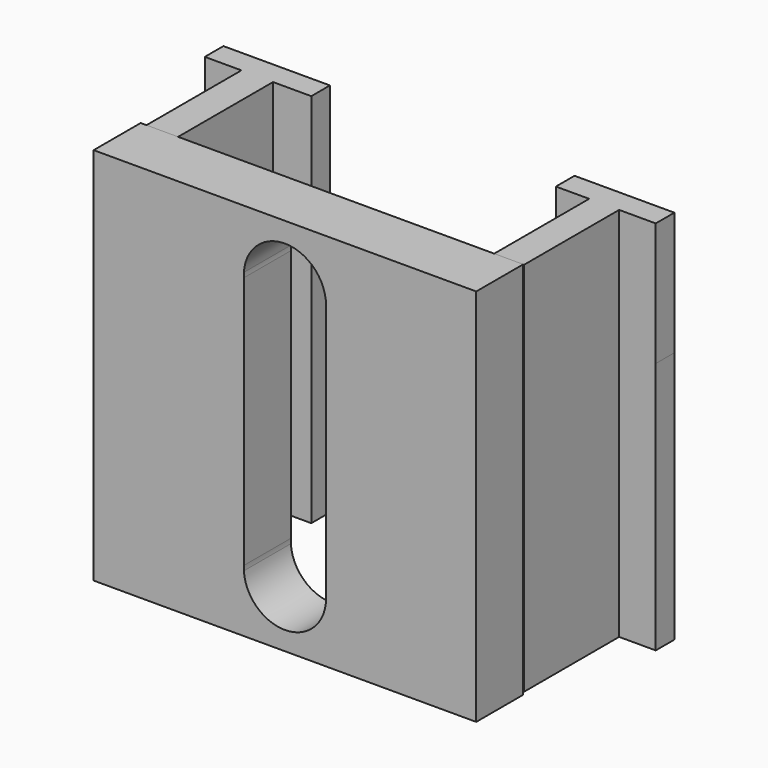
from build123d import *

# Parameters (mm, degrees)
F0_W     = 65.131832
F0_H     = 64.514473
F1_DEPTH = 10
F3_DEPTH = 43
F4_DEPTH = 21


with BuildPart() as f1:
    # F0 (on Front) → F1 (new body)
    with BuildSketch(Plane.XZ):
        with Locations((1.729728, -11.223505)):
            Rectangle(F0_W, F0_H)
        with BuildLine():
            ThreePointArc((8.682307, 11.441543), (8.729724, 10.635549), (8.684016, 9.829457))
            Line((8.684016, 9.829457), (8.729724, -33.286821))
            ThreePointArc((8.729724, -33.286821), (1.936423, -40.29119), (-5.258499, -33.700043))
            ThreePointArc((-5.258499, -33.700043), (-5.270272, -33.294242), (-5.258499, -32.888441))
            Line((-5.258499, -32.888441), (-5.258499, 10.222327))
            ThreePointArc((-5.258499, 10.222327), (-5.270272, 10.628129), (-5.258499, 11.03393))
            ThreePointArc((-5.258499, 11.03393), (1.525143, 17.625138), (8.682307, 11.441543))
        make_face(mode=Mode.SUBTRACT)
    extrude(amount=F1_DEPTH)

    # F2 (on Top) → F3 (join)
    with BuildSketch(Plane.XY):
        Polygon((-29.885342, 0), (-24.503149, 0), (-24.503149, 20.254048), (-17.98786, 20.254048), (-17.98786, 24.219874), (-36.117356, 24.219874), (-36.117356, 20.254048), (-29.885342, 20.254048), align=None)
        Polygon((29.318795, 0), (34.417719, 0), (34.417719, 20.254048), (40.649734, 20.254048), (40.649734, 24.219874), (23.653327, 24.219874), (23.653327, 20.254048), (29.318795, 20.254048), align=None)
    extrude(amount=-F3_DEPTH)

    # F3_face (on face) → F4 (join)
    with BuildSketch(Plane(origin=(31.980128, 14.909508, 0), x_dir=(1, 0, 0), z_dir=(0, 0, 1))):
        Polygon((-2.661333, -14.909508), (2.315516, -14.909508), (2.437591, -14.909508), (2.437591, 5.34454), (8.669607, 5.34454), (8.669607, 9.310366), (-8.326801, 9.310366), (-8.326801, 5.34454), (-2.661333, 5.34454), align=None)
        Polygon((-61.86547, -14.909508), (-56.483277, -14.909508), (-56.483277, 5.34454), (-49.967988, 5.34454), (-49.967988, 9.310366), (-68.097484, 9.310366), (-68.097484, 5.34454), (-61.86547, 5.34454), align=None)
    extrude(amount=F4_DEPTH)


solid = f1.part
